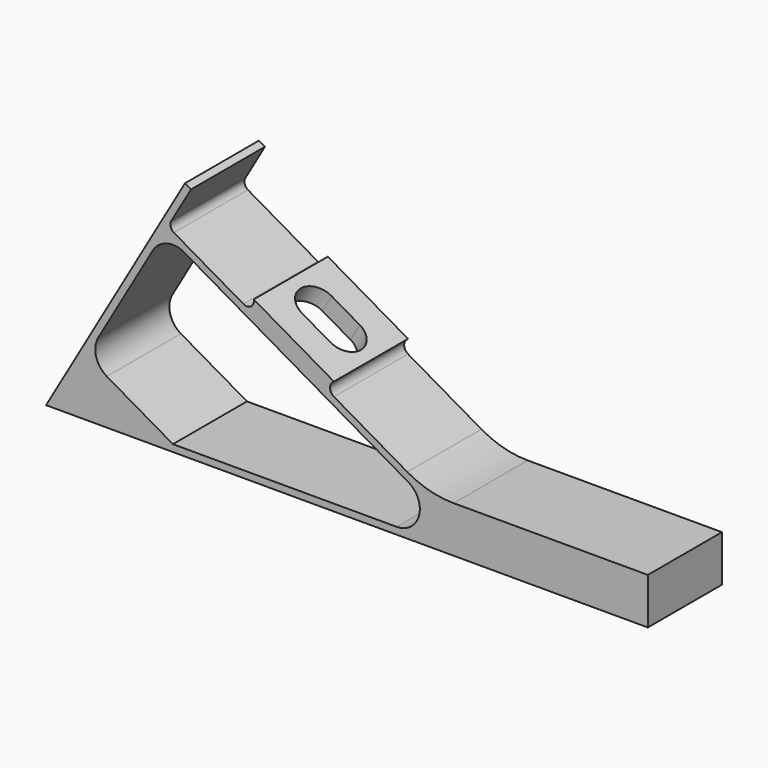
from build123d import *

# Parameters (mm, degrees)
F1_DEPTH = 10
F3_DEPTH = 5


with BuildPart() as f1:
    # F0 (on Front) → F1 (new body, symmetric)
    with BuildSketch(Plane.XZ):
        with BuildLine():
            Line((30, 51.9615242271), (0, 0))
            Line((0, 0), (130, 0))
            Line((130, 0), (130, 10))
            Line((130, 10), (88.0384757729, 10))
            ThreePointArc((88.0384757729, 10), (82.8620948709, 10.6814834742), (78.0384757729, 12.6794919243))
            Line((78.0384757729, 12.6794919243), (62.1900542571, 21.8295823527))
            ThreePointArc((62.1900542571, 21.8295823527), (61.3567209237, 23.2729580257), (62.1900542571, 24.7163336987))
            Line((62.1900542571, 24.7163336987), (44.8695461814, 34.7163336987))
            ThreePointArc((44.8695461814, 34.7163336987), (44.2809682495, 33.1943420065), (42.6513003448, 33.1102871836))
            Line((42.6513003448, 33.1102871836), (27.5980762114, 41.8012701892))
            ThreePointArc((27.5980762114, 41.8012701892), (26.8991874719, 42.7120797272), (27.0490381057, 43.8503082949))
            Line((27.0490381057, 43.8503082949), (31.2990381057, 51.2115242271))
            Line((31.2990381057, 51.2115242271), (30, 51.9615242271))
        make_face()
        with BuildLine():
            ThreePointArc((13.1291651246, 9.7403810568), (10.7995359932, 12.7764128502), (11.2990381057, 16.5705080757))
            Line((11.2990381057, 16.5705080757), (23.0490381057, 36.9221050646))
            ThreePointArc((23.0490381057, 36.9221050646), (26.0850698991, 39.2517341961), (29.8791651246, 38.7522320835))
            Line((29.8791651246, 38.7522320835), (78.2416697508, 10.8301270189))
            ThreePointArc((78.2416697508, 10.8301270189), (80.5712988822, 5.2059047745), (75.7416697508, 1.5))
            Line((75.7416697508, 1.5), (27.4019237886, 1.5))
            Line((27.4019237886, 1.5), (13.1291651246, 9.7403810568))
        make_face(mode=Mode.SUBTRACT)
    extrude(amount=F1_DEPTH, both=True)

    # F2 (on face) → F3 (cut)
    with BuildSketch(Plane(origin=(26.25, 0, 45.4663336987), x_dir=(0.8660254038, 0, -0.5), z_dir=(0.5, 0, 0.8660254038))):
        with BuildLine():
            ThreePointArc((28, 4), (24, 0), (28, -4))
            Line((28, -4), (35, -4))
            ThreePointArc((35, -4), (39, 0), (35, 4))
            Line((35, 4), (28, 4))
        make_face()
    extrude(amount=-F3_DEPTH, mode=Mode.SUBTRACT)


solid = f1.part
